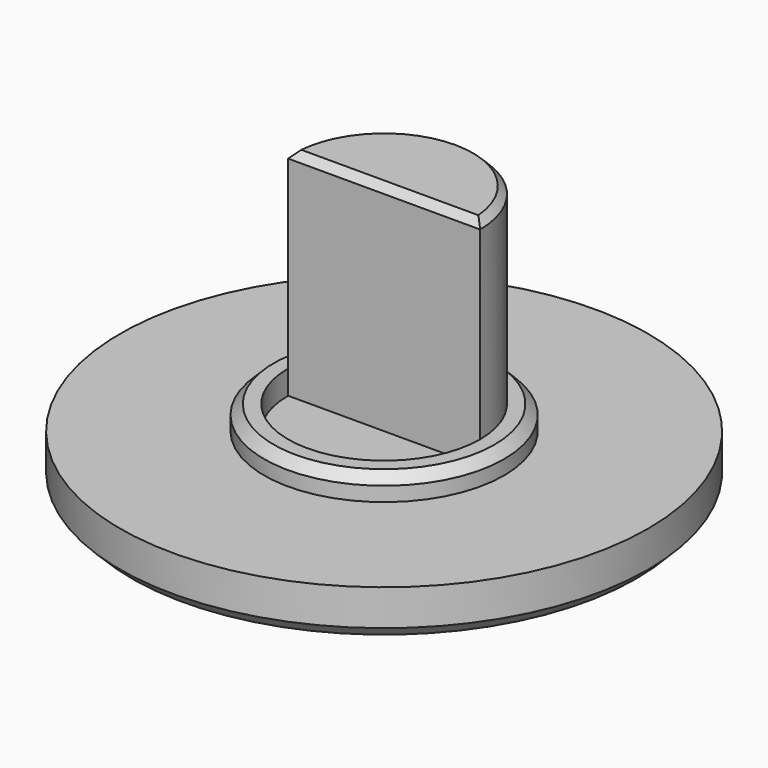
from build123d import *

# Parameters (mm, degrees)
F2_DEPTH = 11
F1_R     = 5
F4_DEPTH = 3
F1_R_2   = 11
F6_DEPTH = 2
F7_DEPTH = 2
F8_SIZE  = 0.4
F9_SIZE  = 0.3
F10_SIZE = 0.5


with BuildPart() as f2:
    # F1 (on Top) → F2 (new body)
    with BuildSketch(Plane.XY):
        with BuildLine():
            Line((-4, 0), (4, 0))
            ThreePointArc((4, 0), (0, 4), (-4, 0))
        make_face()
    extrude(amount=F2_DEPTH)

    # F1 (on Top) → F4 (join)
    with BuildSketch(Plane.XY):
        Circle(F1_R)
        with BuildLine():
            ThreePointArc((-4, 0), (0, 4), (4, 0))
            ThreePointArc((4, 0), (0, -4), (-4, 0))
        make_face(mode=Mode.SUBTRACT)
    extrude(amount=F4_DEPTH)

    # F1 (on Top) → F6 (join)
    with BuildSketch(Plane.XY):
        Circle(F1_R_2)
        Circle(F1_R, mode=Mode.SUBTRACT)
    extrude(amount=F6_DEPTH)

    # F1 (on Top) → F7 (join)
    with BuildSketch(Plane.XY):
        with BuildLine():
            ThreePointArc((-4, 0), (0, -4), (4, 0))
            Line((4, 0), (-4, 0))
        make_face()
    extrude(amount=F7_DEPTH)

    # F8
    f8_edges = [f2.edges().sort_by_distance(p)[0] for p in [
        (-5, 0, 3),
    ]]
    chamfer(f8_edges, length=F8_SIZE)

    # F9
    f9_edges = [f2.edges().sort_by_distance(p)[0] for p in [
        (0, 4, 11),
        (0, 0, 11),
    ]]
    chamfer(f9_edges, length=F9_SIZE)

    # F10
    f10_edges = [f2.edges().sort_by_distance(p)[0] for p in [
        (-11, 0, 0),
    ]]
    chamfer(f10_edges, length=F10_SIZE)


solid = f2.part
